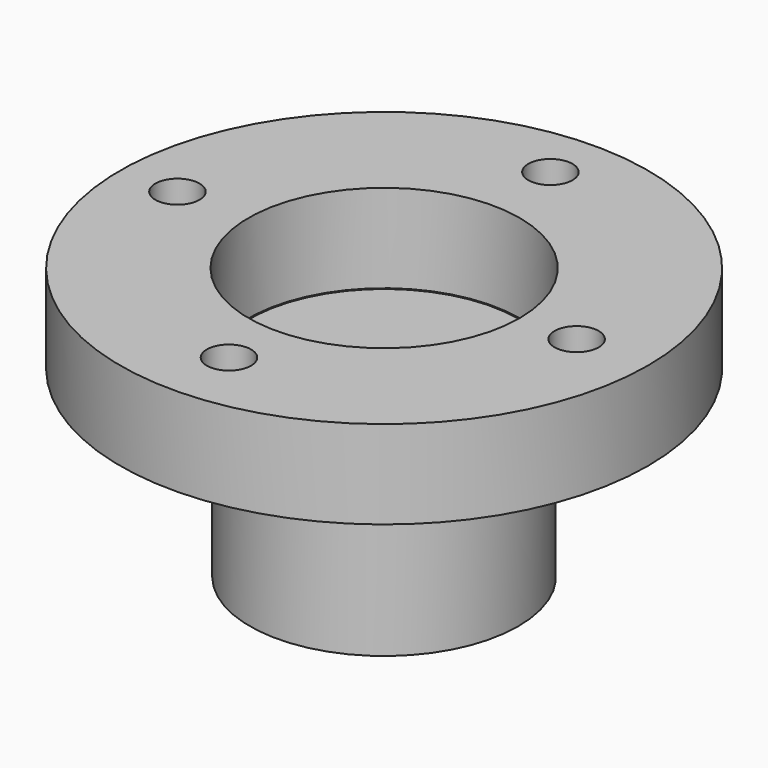
from build123d import *

# Parameters (mm, degrees)
F0_R     = 75.890135
F0_R_2   = 6.35
F0_R_3   = 38.995552
F1_DEPTH = 25.4
F2_R     = 38.595805
F3_DEPTH = 52.720033


with BuildPart() as f1:
    # F0 (on Top) → F1 (new body)
    with BuildSketch(Plane.XY):
        Circle(F0_R)
        with Locations((0, -55.758134)):
            Circle(F0_R_2, mode=Mode.SUBTRACT)
        with Locations((-59.41274, 0)):
            Circle(F0_R_2, mode=Mode.SUBTRACT)
        Circle(F0_R_3, mode=Mode.SUBTRACT)
        with Locations((55.351153, 0)):
            Circle(F0_R_2, mode=Mode.SUBTRACT)
        with Locations((0, 59.764966)):
            Circle(F0_R_2, mode=Mode.SUBTRACT)
    extrude(amount=F1_DEPTH)


with BuildPart() as f3:
    # F2 (on Top) → F3 (new body)
    with BuildSketch(Plane.XY):
        Circle(F2_R)
    extrude(amount=-F3_DEPTH)


solid = Compound([f1.part, f3.part])
